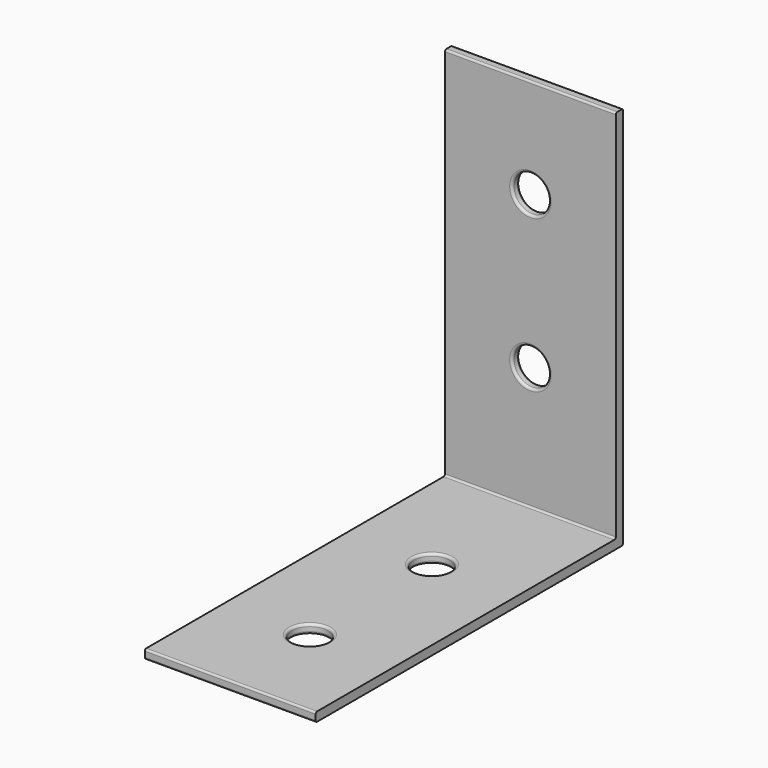
from build123d import *

# Parameters (mm, degrees)
F0_W     = 28
F0_H     = 62.25
F2_DEPTH = 0.75
F1_W     = 28
F1_H     = 62.25
F3_DEPTH = 0.75
F4_DEPTH = 0.75
F5_R     = 0.3
F6_R     = 3
F7_DEPTH = 25
F8_R     = 3
F9_DEPTH = 25
F10_R    = 0.4


with BuildPart() as f2:
    # F0 (on Top) → F2 (new body, symmetric)
    with BuildSketch(Plane.XY):
        with Locations((-14, -31.125)):
            Rectangle(F0_W, F0_H)
    extrude(amount=F2_DEPTH, both=True)

    # F1 (on Front) → F3 (join, symmetric)
    with BuildSketch(Plane.XZ):
        with Locations((-14, 31.125)):
            Rectangle(F1_W, F1_H)
    extrude(amount=F3_DEPTH, both=True)

    # F4 (add, through all): a face of the model
    f4_faces = [f2.faces().sort_by_distance(p)[0] for p in [
        (-14, 0.375, 0),
    ]]
    extrude(f4_faces, amount=F4_DEPTH)

    # F5
    f5_edges = [f2.edges().sort_by_distance(p)[0] for p in [
        (-14, 0.75, -0.75),
        (-14, -0.75, 0.75),
        (-14, -62.25, 0.75),
        (-14, -62.25, -0.75),
        (-14, -0.75, 62.25),
        (-14, 0.75, 62.25),
    ]]
    fillet(f5_edges, radius=F5_R)

    # F6 (on face) → F7 (cut)
    with BuildSketch(Plane.XY.offset(0.75)):
        with Locations((-14, -45.95)):
            Circle(F6_R)
        with Locations((-14, -20.95)):
            Circle(F6_R)
    extrude(amount=-F7_DEPTH, mode=Mode.SUBTRACT)

    # F8 (on face) → F9 (cut)
    with BuildSketch(Plane.XZ.offset(0.75)):
        with Locations((-14, 20.95)):
            Circle(F8_R)
        with Locations((-14, 45.95)):
            Circle(F8_R)
    extrude(amount=-F9_DEPTH, mode=Mode.SUBTRACT)

    # F10
    f10_edges = [f2.edges().sort_by_distance(p)[0] for p in [
        (-17, -45.95, 0.75),
        (-11, -45.95, 0),
        (-17, -45.95, -0.75),
        (-17, -20.95, 0.75),
        (-11, -20.95, 0),
        (-17, -20.95, -0.75),
        (-17, -0.75, 20.95),
        (-11, 0, 20.95),
        (-17, 0.75, 20.95),
        (-17, -0.75, 45.95),
        (-11, 0, 45.95),
        (-17, 0.75, 45.95),
    ]]
    fillet(f10_edges, radius=F10_R)


solid = f2.part
